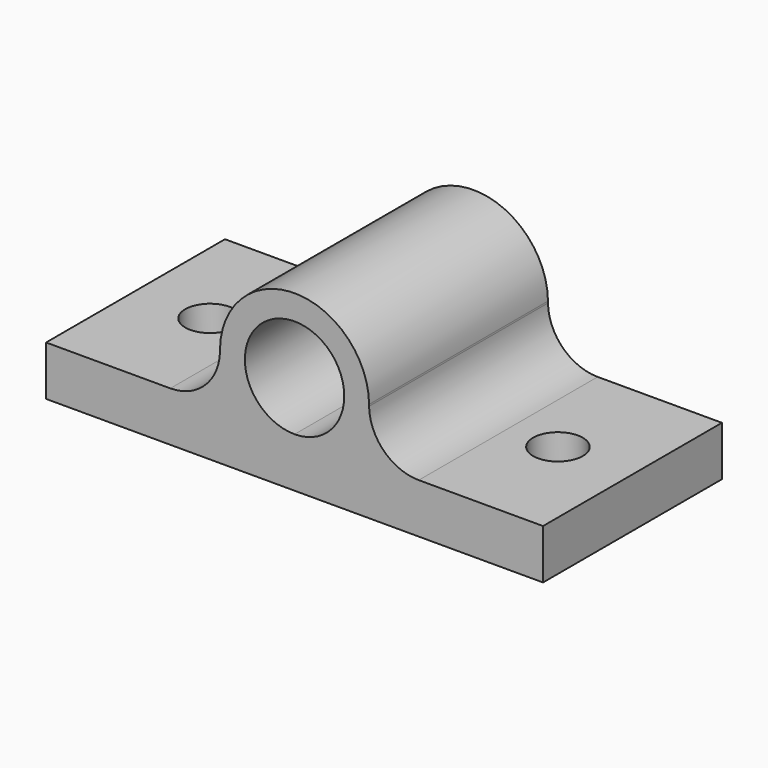
from build123d import *

# Parameters (mm, degrees)
F1_DEPTH  = 57.15
F2_R      = 6.35
F3_DEPTH  = 25.4
F3_FACE_R = 6.35
F4_DEPTH  = 25.401


with BuildPart() as f1:
    # F0 (on Front) → F1 (new body)
    with BuildSketch(Plane.XZ):
        Polygon((-127, 0), (0, 0), (0, 12.7), (-31.753481, 12.7), (-63.5, 12.7), (-95.243674, 12.7), (-127, 12.7), align=None)
        with BuildLine():
            Line((-63.5, 12.7), (-31.753481, 12.7))
            ThreePointArc((-31.753481, 12.7), (-40.651931, 16.338676), (-44.451393, 25.169669))
            ThreePointArc((-44.451393, 25.169669), (-44.453481, 25.4), (-44.451393, 25.630331))
            ThreePointArc((-44.451393, 25.630331), (-63.459927, 44.449958), (-82.54747, 25.71047))
            ThreePointArc((-82.54747, 25.71047), (-82.543674, 25.4), (-82.54747, 25.08953))
            ThreePointArc((-82.54747, 25.08953), (-86.373865, 16.310639), (-95.243674, 12.7))
            Line((-95.243674, 12.7), (-63.5, 12.7))
        make_face()
        with BuildLine():
            ThreePointArc((-50.8, 25.4), (-54.519744, 16.419744), (-63.5, 12.7))
            ThreePointArc((-63.5, 12.7), (-72.480256, 34.380256), (-50.8, 25.4))
        make_face(mode=Mode.SUBTRACT)
        with BuildLine():
            ThreePointArc((-44.451393, 25.630331), (-44.453481, 25.4), (-44.451393, 25.169669))
            ThreePointArc((-44.451393, 25.169669), (-44.45, 25.4), (-44.451393, 25.630331))
        make_face()
        with BuildLine():
            ThreePointArc((-82.54747, 25.71047), (-82.55, 25.4), (-82.54747, 25.08953))
            ThreePointArc((-82.54747, 25.08953), (-82.543674, 25.4), (-82.54747, 25.71047))
        make_face()
    extrude(amount=F1_DEPTH)

    # F2 (on Top) → F3 (join)
    with BuildSketch(Plane.XY):
        with Locations((-19.05, -28.575)):
            Circle(F2_R)
        with Locations((-107.95, -28.575)):
            Circle(F2_R)
    extrude(amount=F3_DEPTH)

    # F3_face (on face) → F4 (cut, through all)
    with BuildSketch(Plane(origin=(-107.95, -28.575, 25.4), x_dir=(1, 0, 0), z_dir=(0, 0, 1))):
        Circle(F3_FACE_R)
        with Locations((88.9, 0)):
            Circle(F3_FACE_R)
    extrude(amount=-F4_DEPTH, mode=Mode.SUBTRACT)


solid = f1.part
